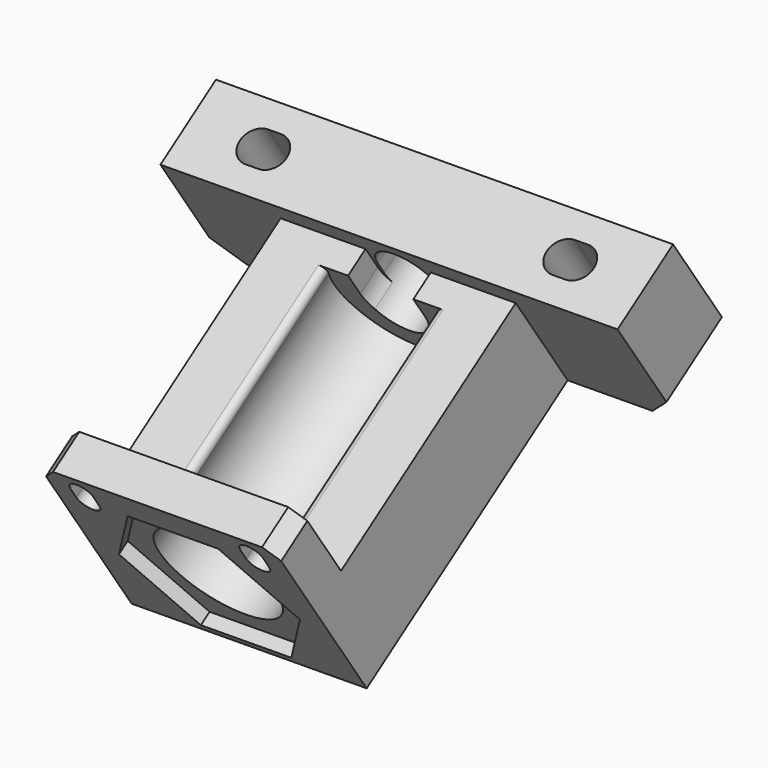
from build123d import *

# Parameters (mm, degrees)
SKETCH029_W             = 70
SKETCH029_H             = 20
PAD005_DEPTH            = 12.7
SKETCH012_W             = 36
SKETCH012_H             = 17
PAD006_DEPTH            = 40
POCKET016_DEPTH         = 40
POCKET014_DEPTH         = 22.994766
SKETCH027_W             = 36
SKETCH027_H             = 30
PAD007_DEPTH            = 6
POCKET017_DEPTH         = 2
POCKET015_DEPTH         = 22
POCKET015_DEPTH_BACK    = 100
SKETCH013_R             = 9
POCKET018_DEPTH         = 40
FILLET_R                = 1
CHAMFER014_SIZE         = 2
CHAMFER013_SIZE         = 4
BODY002_ROLL_ANGLE      = -123.951696
BODY002_PITCH_ANGLE     = 0.828143
BODY002_PLACEMENT_ANGLE = 179.441913


with BuildPart() as part:
    # Sketch029 → Pad005 (new body)
    with BuildSketch(Plane.XY):
        with Locations((-8, 8)):
            Rectangle(SKETCH029_W, SKETCH029_H)
    extrude(amount=PAD005_DEPTH)

    # Sketch012 (on Face6 of Pad005) → Pad006 (join)
    with BuildSketch(Plane.XY.offset(12.7)):
        with Locations((-8, 9.5)):
            Rectangle(SKETCH012_W, SKETCH012_H)
    extrude(amount=PAD006_DEPTH)

    # Sketch028 → Pocket016 (cut)
    with BuildSketch(Plane.XY.offset(52.7)):
        with BuildLine():
            ThreePointArc((-3, 5), (-8, 10), (-13, 5))
            Line((-13, -7.39), (-13, 5))
            Line((-3, -7.39), (-13, -7.39))
            Line((-3, 5), (-3, -7.39))
        make_face()
    extrude(amount=-POCKET016_DEPTH, mode=Mode.SUBTRACT)

    # Sketch025 → Pocket014 (cut, through all)
    with BuildSketch(Plane(origin=(0, 20.993766, 0), x_dir=(-1, 0, 0), z_dir=(0, 1, 0))):
        with BuildLine():
            ThreePointArc((-16.5, 8.95), (-19.1, 6.35), (-16.5, 3.75))
            Line((-16.5, 3.75), (-14.5, 3.75))
            ThreePointArc((-14.5, 3.75), (-11.9, 6.35), (-14.5, 8.95))
            Line((-16.5, 8.95), (-14.5, 8.95))
        make_face()
        with BuildLine():
            ThreePointArc((30.5, 8.95), (27.9, 6.35), (30.5, 3.75))
            Line((30.5, 3.75), (32.5, 3.75))
            ThreePointArc((32.5, 3.75), (35.1, 6.35), (32.5, 8.95))
            Line((30.5, 8.95), (32.5, 8.95))
        make_face()
    extrude(amount=-POCKET014_DEPTH, mode=Mode.SUBTRACT)

    # Sketch027 → Pad007 (join)
    with BuildSketch(Plane.XY.offset(52.7)):
        with Locations((-8, 3)):
            Rectangle(SKETCH027_W, SKETCH027_H)
        with BuildLine():
            ThreePointArc((-19.25, -7), (-21, -5.25), (-22.75, -7))
            Line((-22.75, -7), (-22.75, -9))
            ThreePointArc((-22.75, -9), (-21, -10.75), (-19.25, -9))
            Line((-19.25, -7), (-19.25, -9))
        make_face(mode=Mode.SUBTRACT)
        with BuildLine():
            ThreePointArc((6.75, -7), (5, -5.25), (3.25, -7))
            Line((3.25, -7), (3.25, -9))
            ThreePointArc((3.25, -9), (5, -10.75), (6.75, -9))
            Line((6.75, -7), (6.75, -9))
        make_face(mode=Mode.SUBTRACT)
    extrude(amount=PAD007_DEPTH)

    # Sketch026 → Pocket017 (cut)
    with BuildSketch(Plane.XY.offset(56.7)):
        Polygon((5.856406, 5), (-1.071797, 17), (-14.928203, 17), (-21.856406, 5), (-14.928203, -7), (-1.071797, -7), align=None)
    extrude(amount=POCKET017_DEPTH, mode=Mode.SUBTRACT)

    # Sketch030 → Pocket015 (cut, two sides)
    with BuildSketch(Plane.XY.offset(12.7)) as pocket015_sk:
        with BuildLine():
            ThreePointArc((-3.5, 6), (-8, 10.5), (-12.5, 6))
            Line((-12.5, 6), (-12.5, 4))
            ThreePointArc((-12.5, 4), (-8, -0.5), (-3.5, 4))
            Line((-3.5, 6), (-3.5, 4))
        make_face()
    extrude(amount=-POCKET015_DEPTH, mode=Mode.SUBTRACT)
    extrude(pocket015_sk.sketch, amount=POCKET015_DEPTH_BACK, mode=Mode.SUBTRACT)

    # Sketch013 (on Face29 of Pocket015) → Pocket018 (cut)
    with BuildSketch(Plane.XY.offset(56.7)):
        with Locations((-8, 5)):
            Circle(SKETCH013_R)
    extrude(amount=-POCKET018_DEPTH, mode=Mode.SUBTRACT)

    # Fillet
    fillet_edges = [part.edges().sort_by_distance(p)[0] for p in [
        (0.062258, 1, 34.7),
        (-16.062258, 1, 34.7),
    ]]
    fillet(fillet_edges, radius=FILLET_R)

    # Chamfer014
    chamfer014_edges = [part.edges().sort_by_distance(p)[0] for p in [
        (10, -12, 55.7),
        (-26, -12, 55.7),
    ]]
    chamfer(chamfer014_edges, length=CHAMFER014_SIZE)

    # Chamfer013
    chamfer013_edges = [part.edges().sort_by_distance(p)[0] for p in [
        (-43, 18, 6.35),
        (27, 18, 6.35),
    ]]
    chamfer(chamfer013_edges, length=CHAMFER013_SIZE)


with BuildPart() as part_1:
    # Body002 roll: moved
    add(part.part.rotate(Axis((0, 0, 0), (1, 0, 0)), BODY002_ROLL_ANGLE))


with BuildPart() as part_2:
    # Body002 pitch: moved
    add(part_1.part.rotate(Axis((0, 0, 0), (0, 1, 0)), BODY002_PITCH_ANGLE))


with BuildPart() as part_3:
    # Body002 placement: moved
    add(part_2.part.moved(Location((-0.401038, -43.00558, -24.805855))).rotate(Axis((-0.401038, -43.00558, -24.805855), (0, 0, 1)), BODY002_PLACEMENT_ANGLE))


solid = part_3.part
